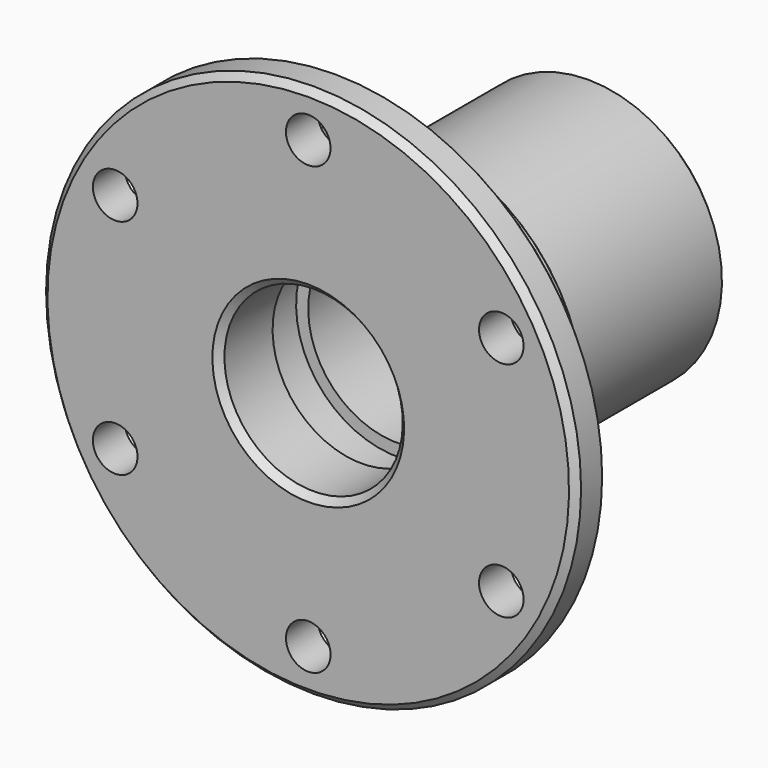
from build123d import *

# Parameters (mm, degrees)
F3_SIZE  = 1.905
F4_R     = 5.08
F5_R     = 6.35
F6_DEPTH = 15.875


with BuildPart() as f1:
    # F0 (on Right) → F1 (revolve)
    with BuildSketch(Plane.YZ):
        Polygon((-44.526481, 38.1), (-44.526481, 25.4), (-25.476481, 25.4), (-25.476481, 28.860142), (-12.776481, 28.860142), (-12.776481, 25.4), (57.073519, 25.4), (57.073519, 38.1), (-7.818043, 38.1), (-7.818043, 50.8), (-33.218043, 50.8), (-33.218043, 76.2), (-44.526481, 76.2), align=None)
    revolve(axis=Axis((0, 16.093373, 0), (0, 1, 0)))

    # F3
    f3_edges = [f1.edges().sort_by_distance(p)[0] for p in [
        (0, -44.526481, -76.2),
        (0, -33.218043, -76.2),
        (0, -7.818043, -50.8),
        (0, 57.073519, -38.1),
        (0, -44.526481, -25.4),
    ]]
    chamfer(f3_edges, length=F3_SIZE)

    # F4
    f4_edges = [f1.edges().sort_by_distance(p)[0] for p in [
        (0, -33.218043, -50.8),
        (0, -7.818043, -38.1),
    ]]
    fillet(f4_edges, radius=F4_R)

    # F5 (on face) → F6 (cut)
    with BuildSketch(Plane.XZ.offset(44.526481)):
        with Locations((-54.992613, 31.75)):
            Circle(F5_R)
        with Locations((-54.992613, -31.75)):
            Circle(F5_R)
        with Locations((0, -63.5)):
            Circle(F5_R)
        with Locations((54.992613, -31.75)):
            Circle(F5_R)
        with Locations((54.992613, 31.75)):
            Circle(F5_R)
        with Locations((0, 63.5)):
            Circle(F5_R)
    extrude(amount=-F6_DEPTH, mode=Mode.SUBTRACT)


solid = f1.part
